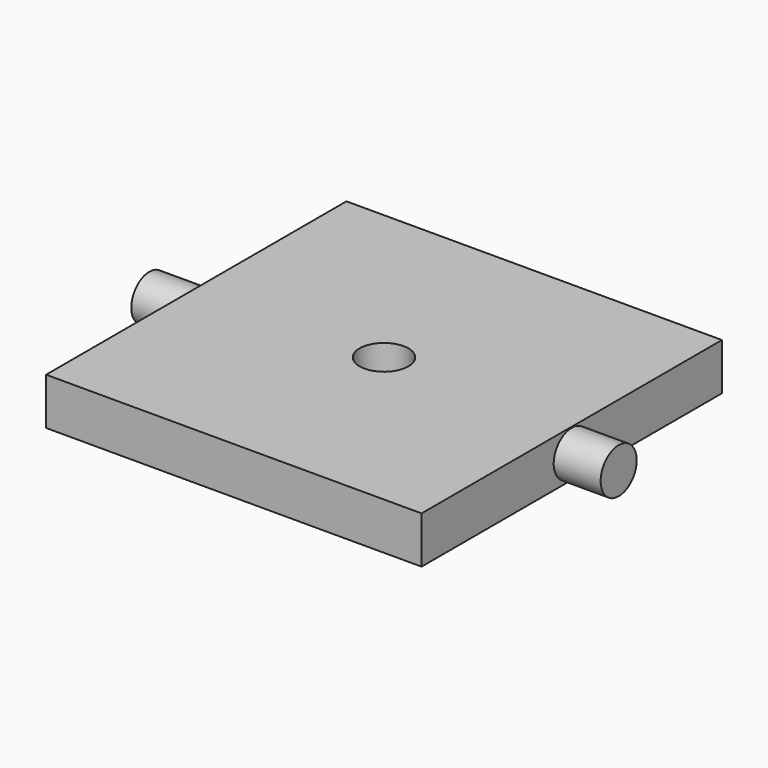
from build123d import *

# Parameters (mm, degrees)
F0_W     = 40
F0_H     = 40
F1_DEPTH = 5
F2_R     = 2.6
F3_DEPTH = 25.4
F4_R     = 2.4
F5_DEPTH = 5


with BuildPart() as f1:
    # F0 (on Top) → F1 (new body)
    with BuildSketch(Plane.XY):
        Rectangle(F0_W, F0_H)
    extrude(amount=F1_DEPTH)

    # F2 (on face) → F3 (cut)
    with BuildSketch(Plane.XY.offset(5)):
        Circle(F2_R)
    extrude(amount=-F3_DEPTH, mode=Mode.SUBTRACT)

    # F4 (on face) → F5 (join)
    with BuildSketch(Plane.YZ.offset(20)):
        with Locations((0, 2.5)):
            Circle(F4_R)
    extrude(amount=F5_DEPTH)

    # F6: F1 across plane


with BuildPart() as f1_1:
    add(f1.part)
    add(f1.part.mirror(Plane.YZ))


solid = f1_1.part
